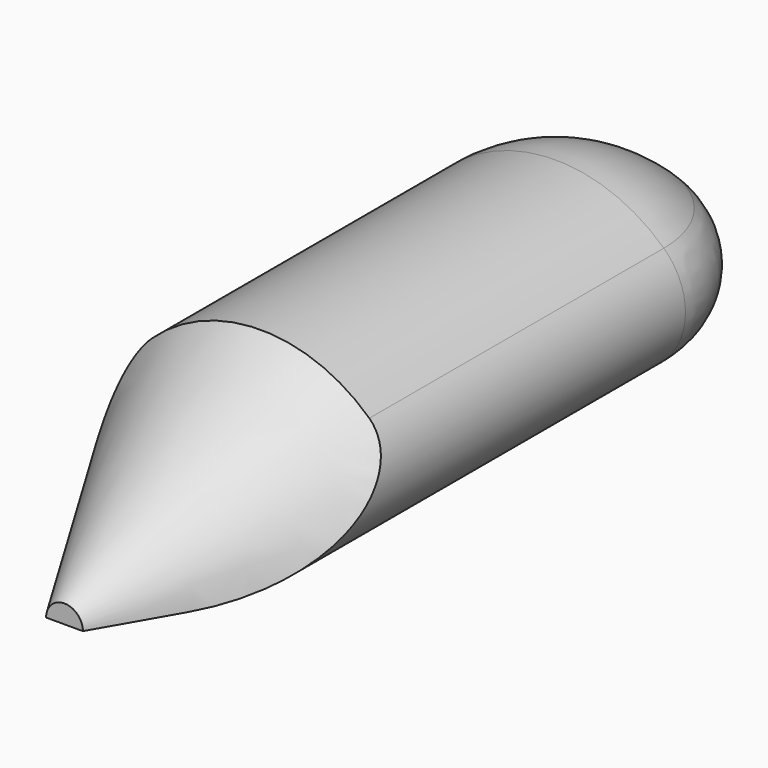
from build123d import *

# Parameters (mm, degrees)
CYLINDER_W     = 130
CYLINDER_H     = 300
CYLINDER_ANGLE = 180
SPHERE_ANGLE   = 180
CONE_ANGLE     = 180
FILLET_R       = 55


with BuildPart() as cylinder:
    # Cylinder → Cylinder (revolve)
    with BuildSketch(Plane(origin=(0, 500, 0), x_dir=(1, 0, 0), z_dir=(0, 0, -1))):
        with Locations((65, 150)):
            Rectangle(CYLINDER_W, CYLINDER_H)
    revolve(axis=Axis((0, 500, 0), (0, -1, 0)), revolution_arc=CYLINDER_ANGLE)


with BuildPart() as sphere:
    # Sphere → Sphere (revolve)
    with BuildSketch(Plane(origin=(0, 500, 0), x_dir=(1, 0, 0), z_dir=(0, 0, -1))):
        with BuildLine():
            ThreePointArc((0, -130), (91.923882, -91.923882), (130, 0))
            Line((130, 0), (0, 0))
            Line((0, 0), (0, -130))
        make_face()
    revolve(axis=Axis((0, 500, 0), (0, -1, 0)), revolution_arc=SPHERE_ANGLE)


with BuildPart() as fillet_body:
    # Cone → Cone (revolve)
    with BuildSketch(Plane(origin=(0, 0, 0), x_dir=(-1, 0, 0), z_dir=(0, 0, -1))):
        Polygon((0, 0), (15, 0), (130, 200), (0, 200), align=None)
    revolve(axis=Axis((0, 0, 0), (0, 1, 0)), revolution_arc=CONE_ANGLE)

    # Fusion: union Cylinder, Sphere
    add(cylinder.part)
    add(sphere.part)

    # Fillet
    fillet_edges = [fillet_body.edges().sort_by_distance(p)[0] for p in [
        (130, 350, 0),
    ]]
    fillet(fillet_edges, radius=FILLET_R)


solid = fillet_body.part
